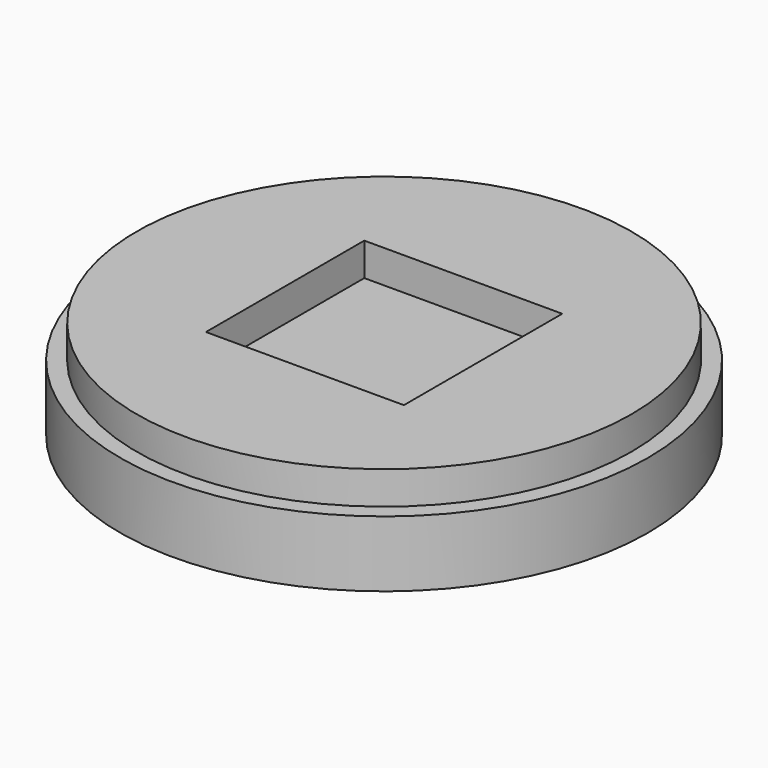
from build123d import *

# Parameters (mm, degrees)
F0_R     = 50.8
F1_DEPTH = 12.7
F2_R     = 47.625
F3_DEPTH = 6.35
F4_W     = 38.1
F4_H     = 38.1
F5_DEPTH = 6.35


with BuildPart() as f1:
    # F0 (on Top) → F1 (new body)
    with BuildSketch(Plane.XY):
        Circle(F0_R)
    extrude(amount=F1_DEPTH)

    # F2 (on face) → F3 (join)
    with BuildSketch(Plane.XY.offset(12.7)):
        Circle(F2_R)
    extrude(amount=F3_DEPTH)

    # F4 (on face) → F5 (cut)
    with BuildSketch(Plane.XY.offset(19.05)):
        Rectangle(F4_W, F4_H)
    extrude(amount=-F5_DEPTH, mode=Mode.SUBTRACT)


solid = f1.part
